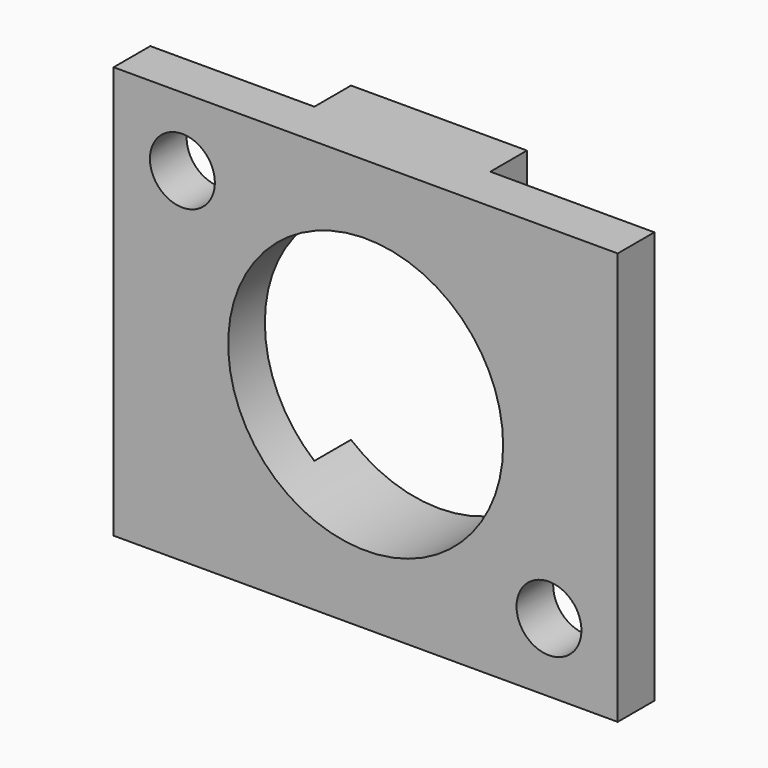
from build123d import *

# Parameters (mm, degrees)
F0_W     = 34.925
F0_H     = 28.575
F1_DEPTH = 1.5875
F3_D     = 4.4958
F3_DEPTH = 12.7
F3_TIP   = 1.3506745855
F4_W     = 12.192
F4_H     = 28.575
F5_DEPTH = 3.175
F6_R     = 9.525
F7_DEPTH = 6.351


with BuildPart() as f1:
    # F0 (on Front) → F1 (new body, symmetric)
    with BuildSketch(Plane.XZ):
        Rectangle(F0_W, F0_H)
    extrude(amount=F1_DEPTH, both=True)

    # F3
    with Locations(Plane.XZ.offset(1.5875)):
        with Locations((-12.7, 9.525), (12.7, -9.525)):
            Hole(F3_D / 2, depth=F3_DEPTH)
            with Locations((0, 0, -(F3_DEPTH + F3_TIP / 2))):  # 118° drill point
                Cone(0, F3_D / 2, F3_TIP, mode=Mode.SUBTRACT)

    # F4 (on face) → F5 (join)
    with BuildSketch(Plane(origin=(0, 1.5875, 0), x_dir=(-1, 0, 0), z_dir=(0, 1, 0))):
        Rectangle(F4_W, F4_H)
    extrude(amount=F5_DEPTH)

    # F6 (on face) → F7 (cut, through all)
    with BuildSketch(Plane.XZ.offset(1.5875)):
        Circle(F6_R)
    extrude(amount=-F7_DEPTH, mode=Mode.SUBTRACT)


solid = f1.part
